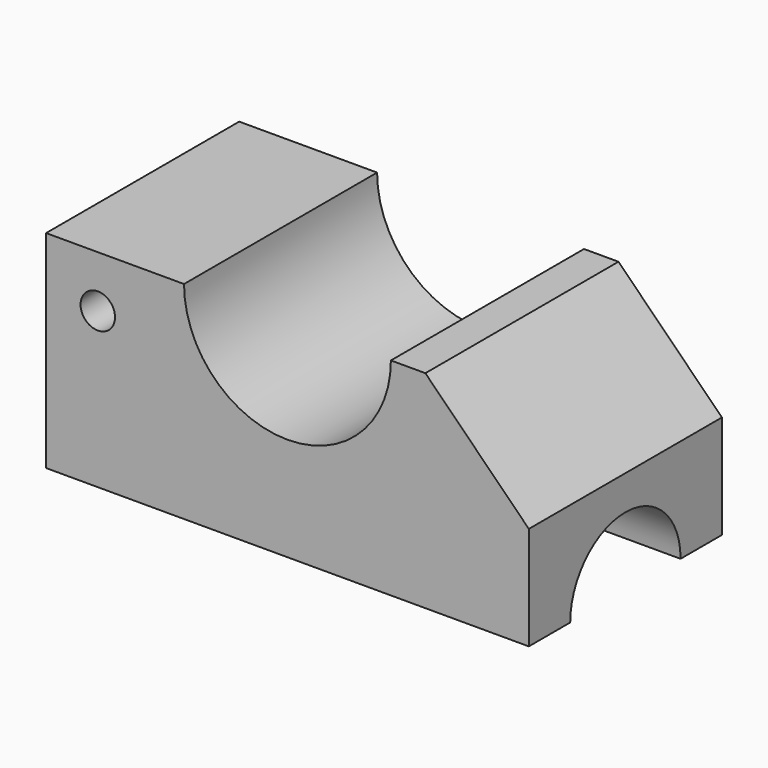
from build123d import *

# Parameters (mm, degrees)
F0_W     = 30
F0_H     = 30
F0_R     = 5
F1_DEPTH = 70
F2_R     = 20
F3_DEPTH = 70


with BuildPart() as f1:
    # F0 (on Front) → F1 (new body)
    with BuildSketch(Plane.XZ):
        Polygon((70, 0), (40, 30), (40, 0), align=None)
        with Locations((-55, 15)):
            Rectangle(F0_W, F0_H)
        with Locations((-55, 15)):
            Circle(F0_R, mode=Mode.SUBTRACT)
        with BuildLine():
            Line((40, 0), (40, 30))
            Line((40, 30), (30, 30))
            ThreePointArc((30, 30), (0, 0), (-30, 30))
            Line((-30, 30), (-40, 30))
            Line((-40, 30), (-40, 0))
            Line((-40, 0), (-70, 0))
            Line((-70, 0), (-70, -30))
            Line((-70, -30), (70, -30))
            Line((70, -30), (70, 0))
            Line((70, 0), (40, 0))
        make_face()
    extrude(amount=F1_DEPTH)

    # F2 (on Right) → F3 (cut, symmetric)
    with BuildSketch(Plane.YZ):
        with Locations((-35, -29.9676731229)):
            Circle(F2_R)
    extrude(amount=F3_DEPTH, both=True, mode=Mode.SUBTRACT)


solid = f1.part
